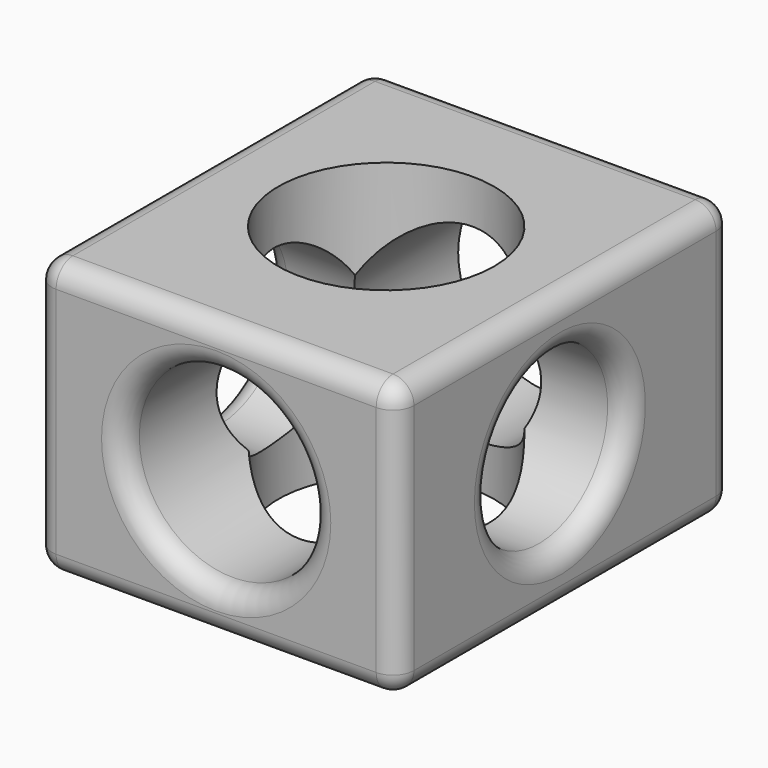
from build123d import *

# Parameters (mm, degrees)
F0_W     = 86.2832025692
F0_H     = 65.585276573
F1_DEPTH = 100
F2_R     = 22.3212855612
F3_DEPTH = 115.4
F4_R     = 20.4720468023
F5_DEPTH = 100.4
F6_R     = 25.7405696555
F7_DEPTH = 93
F8_R     = 5
F9_R     = 5


with BuildPart() as f1:
    # F0 (on Front) → F1 (new body)
    with BuildSketch(Plane.XZ):
        Rectangle(F0_W, F0_H)
    extrude(amount=F1_DEPTH)

    # F2 (on face) → F3 (cut)
    with BuildSketch(Plane(origin=(0, 0, 0), x_dir=(-1, 0, 0), z_dir=(0, 1, 0))):
        Circle(F2_R)
    extrude(amount=-F3_DEPTH, mode=Mode.SUBTRACT)

    # F4 (on face) → F5 (cut)
    with BuildSketch(Plane(origin=(-43.1416012846, 0, 0), x_dir=(0, -1, 0), z_dir=(-1, 0, 0))):
        with Locations((51.5240654349, 0)):
            Circle(F4_R)
    extrude(amount=-F5_DEPTH, mode=Mode.SUBTRACT)

    # F6 (on face) → F7 (cut)
    with BuildSketch(Plane.XY.offset(32.7926382865)):
        with Locations((0, -49.3482612073)):
            Circle(F6_R)
    extrude(amount=-F7_DEPTH, mode=Mode.SUBTRACT)

    # F8
    f8_edges = [f1.edges().sort_by_distance(p)[0] for p in [
        (0, 0, 32.792638),
        (0, 0, -32.792638),
    ]]
    fillet(f8_edges, radius=F8_R)

    # F9
    f9_edges = [f1.edges().sort_by_distance(p)[0] for p in [
        (0, -100, -32.792638),
        (-43.141601, -100, 0),
        (43.141601, -100, 0),
        (0, -100, 32.792638),
        (22.321286, -100, 0),
        (-43.141601, -52.5, 32.792638),
        (-43.141601, -1.464466, 31.328172),
        (-43.141601, 0, 0),
        (-43.141601, -52.5, -32.792638),
        (-43.141601, -1.464466, -31.328172),
        (-43.141601, -31.052019, 0),
        (43.141601, -52.5, -32.792638),
        (43.141601, -1.464466, -31.328172),
        (43.141601, 0, 0),
        (43.141601, -52.5, 32.792638),
        (43.141601, -1.464466, 31.328172),
        (43.141601, -31.052019, 0),
    ]]
    fillet(f9_edges, radius=F9_R)


solid = f1.part
